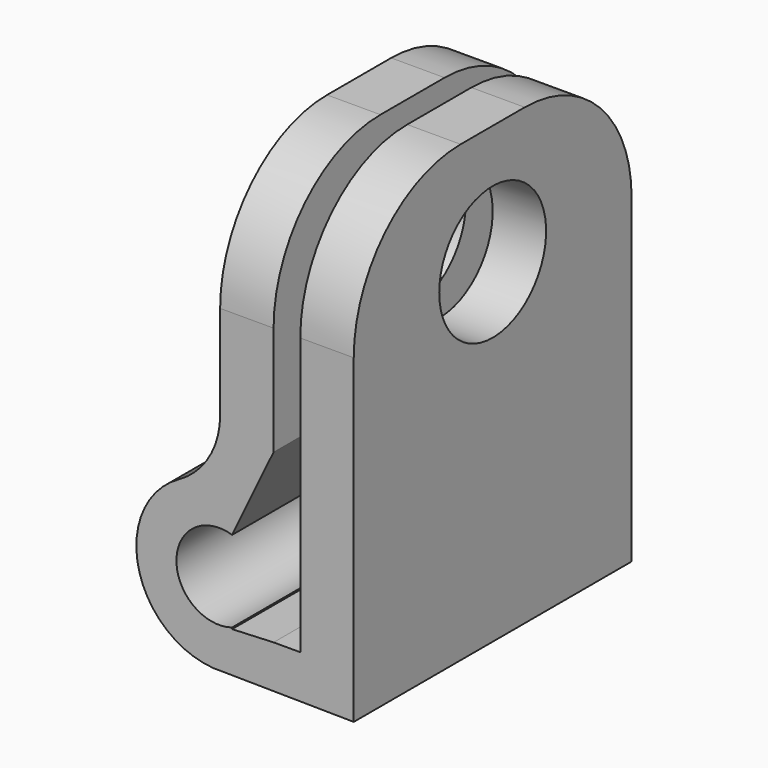
from build123d import *

# Parameters (mm, degrees)
F1_DEPTH = 13
F2_R     = 1.6
F3_DEPTH = 25
F5_DEPTH = 25
F6_R     = 3
F7_R     = 5
F8_R     = 2.5
F9_DEPTH = 25


with BuildPart() as f1:
    # F0 (on Front) → F1 (new body)
    with BuildSketch(Plane.XZ):
        with BuildLine():
            Line((-4.862412, 0.061252), (0, 0))
            Line((0, 0), (0, 17))
            Line((0, 17), (-2, 17))
            Line((-2, 17), (-2, 1.645369))
            Line((-2, 1.645369), (-3, 1.645369))
            Line((-3, 1.645369), (-3, 17))
            Line((-3, 17), (-5, 17))
            Line((-5, 17), (-5, 6.256132))
            ThreePointArc((-5, 6.256132), (-8.135924, 3.087515), (-4.862412, 0.061252))
        make_face()
    extrude(amount=F1_DEPTH)

    # F2 (on face) → F3 (cut)
    with BuildSketch(Plane.XZ.offset(13)):
        with Locations((-5.036688, 3.156349)):
            Circle(F2_R)
    extrude(amount=-F3_DEPTH, mode=Mode.SUBTRACT)

    # F4 (on face) → F5 (cut)
    with BuildSketch(Plane.XZ.offset(13)):
        Polygon((-2.599795, 8.748447), (-4.55274, 4.681404), (-4.59475, 3.031561), (-2.599795, 3.031561), align=None)
        Polygon((-2.599795, 3.031561), (-4.59475, 3.031561), (-4.55274, 1.576295), (-3, 1.645369), align=None)
    extrude(amount=-F5_DEPTH, mode=Mode.SUBTRACT)

    # F6
    f6_edges = [f1.edges().sort_by_distance(p)[0] for p in [
        (-5, -6.5, 6.256132),
    ]]
    fillet(f6_edges, radius=F6_R)

    # F7
    f7_edges = [f1.edges().sort_by_distance(p)[0] for p in [
        (-4, 0, 17),
        (-1, 0, 17),
        (-4, -13, 17),
        (-1, -13, 17),
    ]]
    fillet(f7_edges, radius=F7_R)

    # F8 (on face) → F9 (cut)
    with BuildSketch(Plane(origin=(-5, 0, 0), x_dir=(0, -1, 0), z_dir=(-1, 0, 0))):
        with Locations((6.5, 12.515542)):
            Circle(F8_R)
    extrude(amount=-F9_DEPTH, mode=Mode.SUBTRACT)


solid = f1.part
